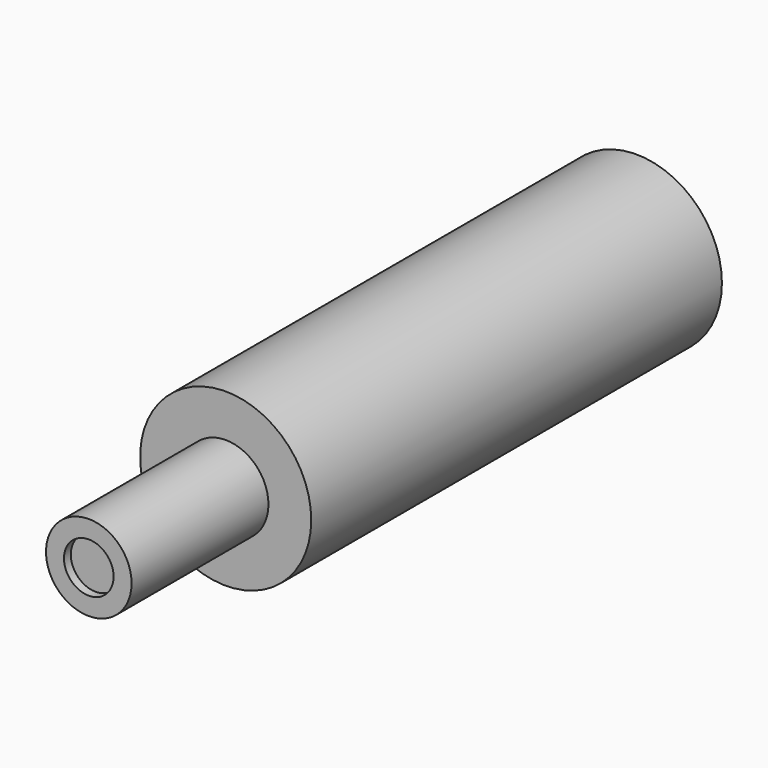
from build123d import *

# Parameters (mm, degrees)
F0_R     = 5
F1_DEPTH = 40
F2_R     = 5.5
F2_R_2   = 2.5
F3_DEPTH = 10
F4_R     = 1.45
F5_DEPTH = 0.5


with BuildPart() as f1:
    # F0 (on Front) → F1 (new body)
    with BuildSketch(Plane.XZ):
        Circle(F0_R)
    extrude(amount=F1_DEPTH)

    # F2 (on face) → F3 (cut)
    with BuildSketch(Plane.XZ.offset(40)):
        Circle(F2_R)
        Circle(F2_R_2, mode=Mode.SUBTRACT)
    extrude(amount=-F3_DEPTH, mode=Mode.SUBTRACT)

    # F4 (on face) → F5 (cut)
    with BuildSketch(Plane.XZ.offset(40)):
        Circle(F4_R)
    extrude(amount=-F5_DEPTH, mode=Mode.SUBTRACT)


solid = f1.part
